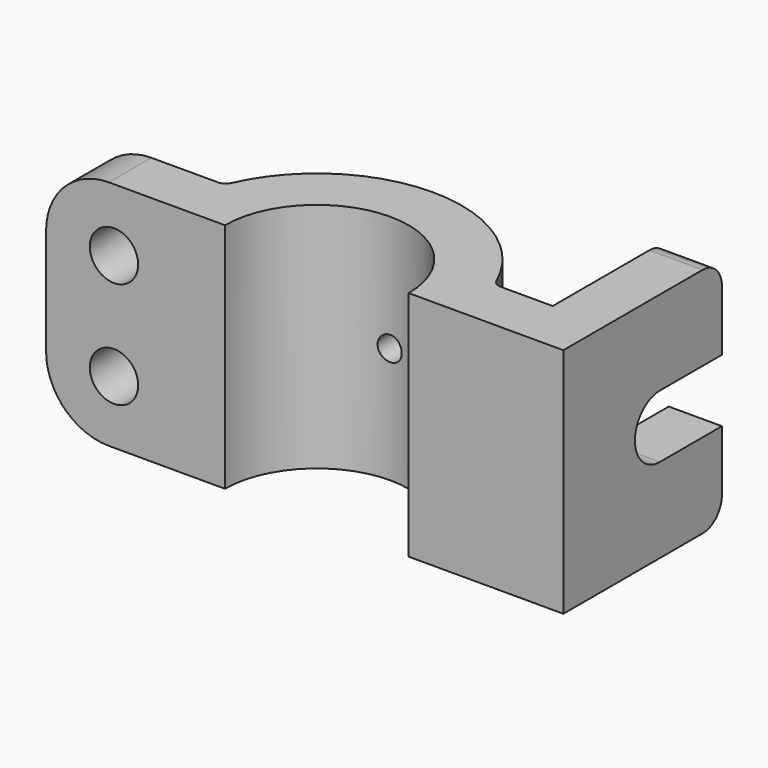
from build123d import *

# Parameters (mm, degrees)
F0_W     = 11
F0_H     = 30
F1_DEPTH = 24
F3_DEPTH = 11
F4_R     = 5
F4_R_2   = 2.5
F5_DEPTH = 41.001
F6_R     = 13
F7_R     = 5
F8_R     = 2


with BuildPart() as f1:
    # F0 (on Top) → F1 (new body, symmetric)
    with BuildSketch(Plane.XY):
        with BuildLine():
            Line((-56, 0), (-30, 0))
            ThreePointArc((-30, 0), (-29.4730143031, 5.5983415304), (-27.9105714739, 11))
            Line((-27.9105714739, 11), (-56, 11))
            Line((-56, 11), (-56, 0))
        make_face()
        with BuildLine():
            ThreePointArc((-27.9105714739, 11), (-29.4730143031, 5.5983415304), (-30, 0))
            Line((-30, 0), (-19, 0))
            ThreePointArc((-19, 0), (-18.1017503893, 5.7729223833), (-15.4919333848, 11))
            Line((-15.4919333848, 11), (-27.9105714739, 11))
        make_face()
        with BuildLine():
            Line((15.4919333848, 11), (27.9105714739, 11))
            ThreePointArc((27.9105714739, 11), (0, 30), (-27.9105714739, 11))
            Line((-27.9105714739, 11), (-15.4919333848, 11))
            ThreePointArc((-15.4919333848, 11), (0, 19), (15.4919333848, 11))
        make_face()
        with BuildLine():
            Line((19, 0), (30, 0))
            ThreePointArc((30, 0), (29.4730143031, 5.5983415304), (27.9105714739, 11))
            Line((27.9105714739, 11), (15.4919333848, 11))
            ThreePointArc((15.4919333848, 11), (18.1017503893, 5.7729223833), (19, 0))
        make_face()
        with BuildLine():
            ThreePointArc((27.9105714739, 11), (29.4730143031, 5.5983415304), (30, 0))
            Line((30, 0), (51, 0))
            Line((51, 0), (51, 11))
            Line((51, 11), (40, 11))
            Line((40, 11), (27.9105714739, 11))
        make_face()
        with Locations((45.5, 26)):
            Rectangle(F0_W, F0_H)
    extrude(amount=F1_DEPTH, both=True)

    # F2 (on face) → F3 (cut, through all)
    with BuildSketch(Plane.YZ.offset(51)):
        with BuildLine():
            ThreePointArc((25, 6.5), (29.5961940777, 4.5961940777), (31.5, 0))
            ThreePointArc((31.5, 0), (29.5961940777, -4.5961940777), (25, -6.5))
            Line((25, -6.5), (41, -6.5))
            Line((41, -6.5), (41, 6.5))
            Line((41, 6.5), (25, 6.5))
        make_face()
        with BuildLine():
            ThreePointArc((25, -6.5), (29.5961940777, -4.5961940777), (31.5, 0))
            ThreePointArc((31.5, 0), (29.5961940777, 4.5961940777), (25, 6.5))
            ThreePointArc((25, 6.5), (18.5, 0), (25, -6.5))
        make_face()
    extrude(amount=-F3_DEPTH, mode=Mode.SUBTRACT)

    # F4 (on Front) → F5 (cut, through all)
    with BuildSketch(Plane.XZ):
        with Locations((-41.955285737, 11)):
            Circle(F4_R)
        with Locations((-41.955285737, -11)):
            Circle(F4_R)
        Circle(F4_R_2)
    extrude(amount=-F5_DEPTH, mode=Mode.SUBTRACT)

    # F6
    f6_edges = [f1.edges().sort_by_distance(p)[0] for p in [
        (-56, 5.5, -24),
        (-56, 5.5, 24),
    ]]
    fillet(f6_edges, radius=F6_R)

    # F7
    f7_edges = [f1.edges().sort_by_distance(p)[0] for p in [
        (45.5, 41, -24),
        (45.5, 41, 24),
    ]]
    fillet(f7_edges, radius=F7_R)

    # F8
    f8_edges = [f1.edges().sort_by_distance(p)[0] for p in [
        (-27.910571, 11, 0),
        (27.910571, 11, 0),
    ]]
    fillet(f8_edges, radius=F8_R)


solid = f1.part
